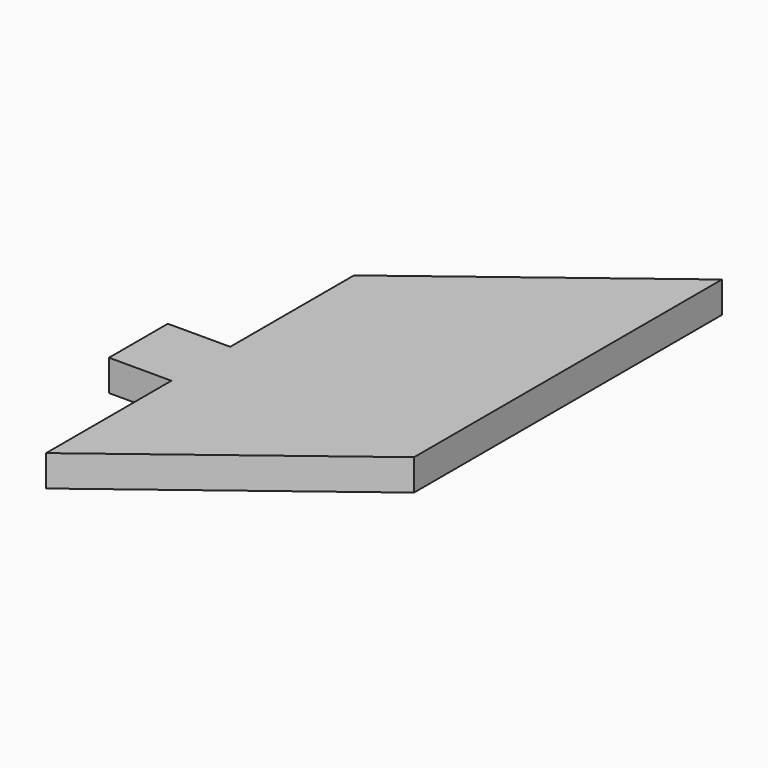
from build123d import *

# Parameters (mm, degrees)
F1_DEPTH = 3.24


with BuildPart() as f1:
    # F0 (on Top) → F1 (new body)
    with BuildSketch(Plane.XY):
        Polygon((32.101754, 47.657341), (8.328551, 29.566584), (8.328551, 13.494031), (8.328551, 9.566584), (8.328551, 5.849354), (8.328551, -10.433416), (32.101754, 7.657341), align=None)
        Polygon((8.328551, 9.566584), (8.328551, 13.494031), (1.83994, 13.494031), (1.83994, 5.849354), (8.328551, 5.849354), align=None)
    extrude(amount=F1_DEPTH)


solid = f1.part
